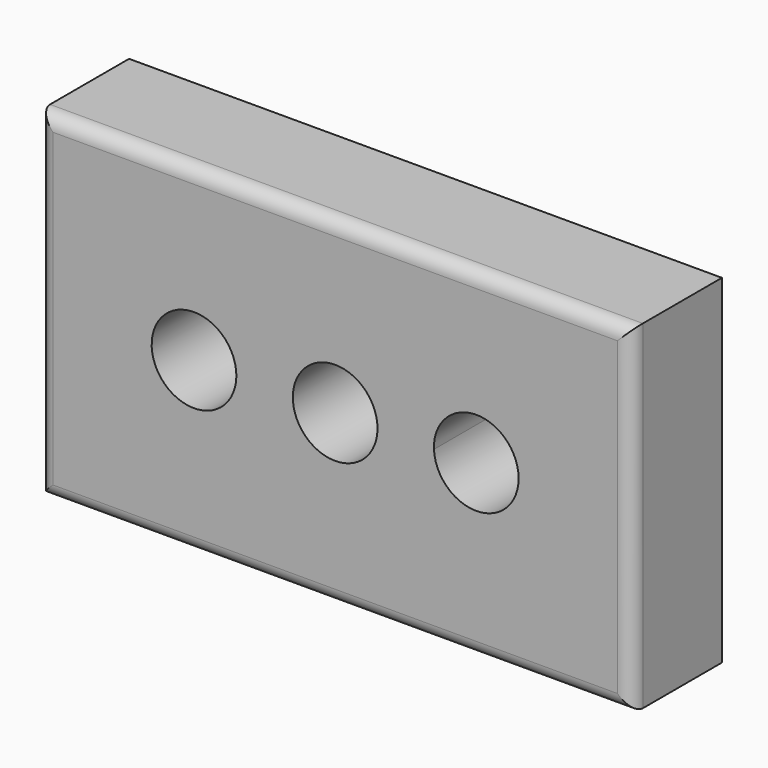
from build123d import *

# Parameters (mm, degrees)
F0_W     = 105
F0_H     = 60
F1_DEPTH = 10
F2_R     = 2.5


with BuildPart() as f1:
    # F0 (on Front) → F1 (new body, symmetric)
    with BuildSketch(Plane.XZ):
        Rectangle(F0_W, F0_H)
        with BuildLine():
            ThreePointArc((-17.499497, 0.086824), (-17.499623, 0.043411), (-17.5, 0))
            ThreePointArc((-17.5, 0), (-32.499372, 0.130237), (-17.499497, 0.086824))
        make_face(mode=Mode.SUBTRACT)
        with BuildLine():
            ThreePointArc((-7.5, 0), (0, 7.5), (7.5, 0))
            ThreePointArc((7.5, 0), (0, -7.5), (-7.5, 0))
        make_face(mode=Mode.SUBTRACT)
        with BuildLine():
            ThreePointArc((32.492652, 0.33191), (25.158648, -7.166253), (17.5, 0))
            ThreePointArc((17.5, 0), (24.826656, 7.830073), (32.492652, 0.33191))
        make_face(mode=Mode.SUBTRACT)
    extrude(amount=F1_DEPTH, both=True)

    # F2
    f2_edges = [f1.edges().sort_by_distance(p)[0] for p in [
        (0, -10, 30),
        (-52.5, -10, 0),
        (0, -10, -30),
        (52.5, -10, 0),
    ]]
    fillet(f2_edges, radius=F2_R)


solid = f1.part
